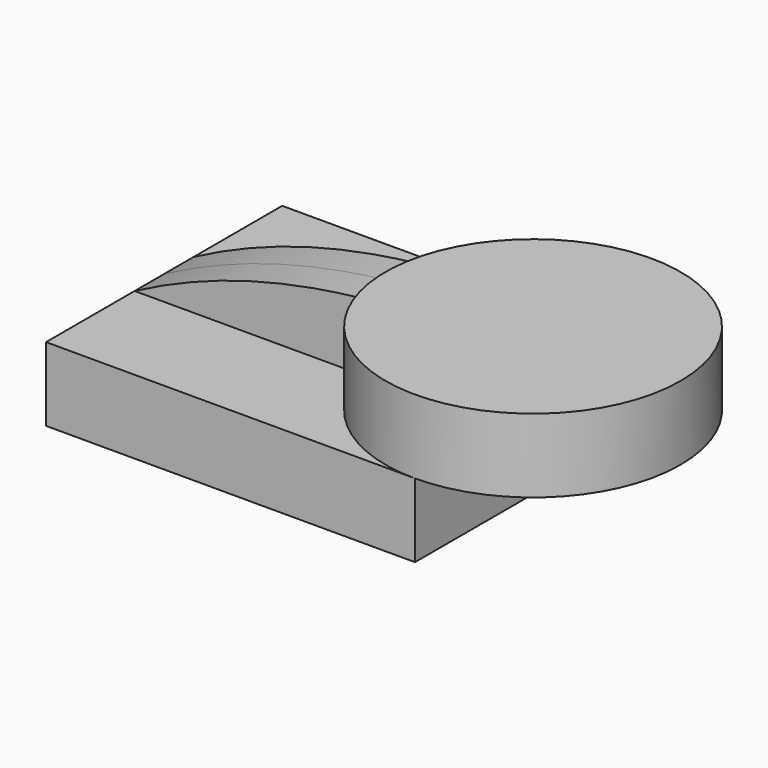
from build123d import *

# Parameters (mm, degrees)
F0_W     = 31.75
F0_H     = 6.35
F1_DEPTH = 12.7
F2_DEPTH = 3.175
F0_W_2   = 12.7


with BuildPart() as f1:
    # F0 (on Front) → F1 (new body, symmetric)
    with BuildSketch(Plane.XZ):
        Rectangle(F0_W, F0_H)
    extrude(amount=F1_DEPTH, both=True)

    # F0 (on Front) → F2 (join, symmetric)
    with BuildSketch(Plane.XZ):
        with BuildLine():
            Line((-15.875, 3.175), (15.875, 3.175))
            Line((15.875, 3.175), (15.875, 9.525))
            add(Edge.make_bspline(
                [(-15.875, 3.175), (-5.0392741859, 8.9093035005), (5.4355907996, 9.525), (15.875, 9.525)],
                knots=[0, 0, 0, 0, 32.3787739113, 32.3787739113, 32.3787739113, 32.3787739113], degree=3))
        make_face()
    extrude(amount=F2_DEPTH, both=True)

    # F0 (on Front) → F3 (revolve)
    with BuildSketch(Plane.XZ):
        with Locations((22.225, 6.35)):
            Rectangle(F0_W_2, F0_H)
    revolve(axis=Axis((15.875, 0, 6.35), (0, 0, 1)))


solid = f1.part
